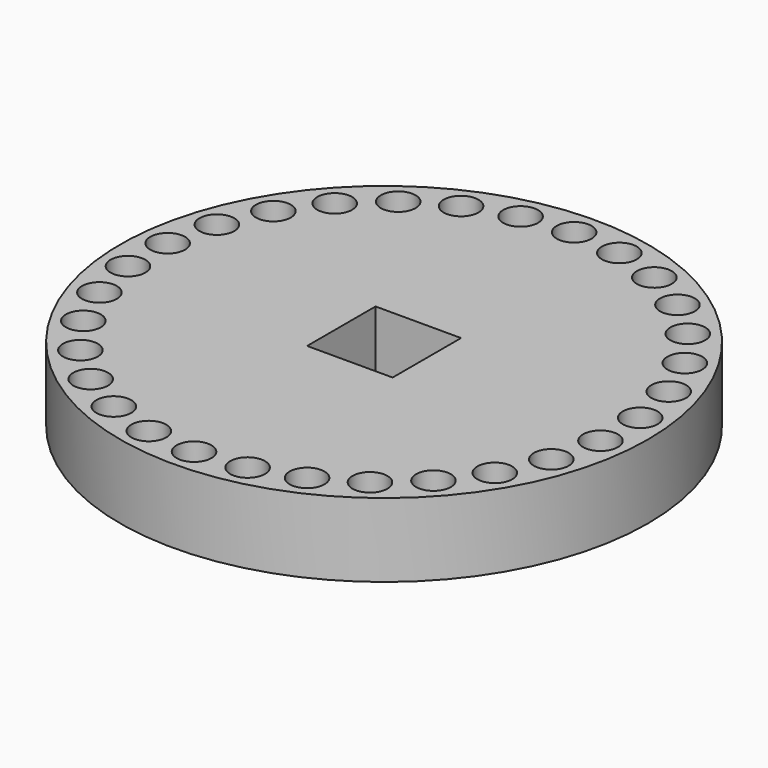
from build123d import *

# Parameters (mm, degrees)
F0_R          = 25
F0_W          = 8.1
F0_H          = 8.1
F1_DEPTH      = 8
F2_R          = 1.65
F3_DEPTH      = 10
F3_DEPTH_BACK = 7
F4_SIZE2      = 7
F4_SIZE       = 1
F5_ANGLE      = 90


with BuildPart() as f1:
    # F0 (on Front) → F1 (new body)
    with BuildSketch(Plane.XZ):
        Circle(F0_R)
        Rectangle(F0_W, F0_H, mode=Mode.SUBTRACT)
    extrude(amount=F1_DEPTH)

    # F2 (on face) → F3 (cut, two sides)
    with BuildSketch(Plane.XZ.offset(8)) as f3_sk:
        with Locations((0, 22.5)):
            Circle(F2_R)
        with Locations((-4.678013, 22.008321)):
            Circle(F2_R)
        with Locations((-9.151574, 20.554773)):
            Circle(F2_R)
        with Locations((-13.225168, 18.202882)):
            Circle(F2_R)
        with Locations((-16.720759, 15.055439)):
            Circle(F2_R)
        with Locations((-19.485572, 11.25)):
            Circle(F2_R)
        with Locations((-21.398772, 6.952882)):
            Circle(F2_R)
        with Locations((-22.376743, 2.35189)):
            Circle(F2_R)
        with Locations((-22.376743, -2.35189)):
            Circle(F2_R)
        with Locations((-21.398772, -6.952882)):
            Circle(F2_R)
        with Locations((-19.485572, -11.25)):
            Circle(F2_R)
        with Locations((-16.720759, -15.055439)):
            Circle(F2_R)
        with Locations((-13.225168, -18.202882)):
            Circle(F2_R)
        with Locations((-9.151574, -20.554773)):
            Circle(F2_R)
        with Locations((-4.678013, -22.008321)):
            Circle(F2_R)
        with Locations((0, -22.5)):
            Circle(F2_R)
        with Locations((4.678013, -22.008321)):
            Circle(F2_R)
        with Locations((9.151574, -20.554773)):
            Circle(F2_R)
        with Locations((13.225168, -18.202882)):
            Circle(F2_R)
        with Locations((16.720759, -15.055439)):
            Circle(F2_R)
        with Locations((19.485572, -11.25)):
            Circle(F2_R)
        with Locations((21.398772, -6.952882)):
            Circle(F2_R)
        with Locations((22.376743, -2.35189)):
            Circle(F2_R)
        with Locations((22.376743, 2.35189)):
            Circle(F2_R)
        with Locations((21.398772, 6.952882)):
            Circle(F2_R)
        with Locations((19.485572, 11.25)):
            Circle(F2_R)
        with Locations((16.720759, 15.055439)):
            Circle(F2_R)
        with Locations((13.225168, 18.202882)):
            Circle(F2_R)
        with Locations((9.151574, 20.554773)):
            Circle(F2_R)
        with Locations((4.678013, 22.008321)):
            Circle(F2_R)
    extrude(amount=F3_DEPTH, mode=Mode.SUBTRACT)
    extrude(f3_sk.sketch, amount=-F3_DEPTH_BACK, mode=Mode.SUBTRACT)

    # F4
    f4_edges = [f1.edges().sort_by_distance(p)[0] for p in [
        (-25, 0, 0),
    ]]
    chamfer(f4_edges, length=F4_SIZE, length2=F4_SIZE2)


with BuildPart() as f1_1:
    # F5: moved
    add(f1.part.rotate(Axis((0, -8, 4.05), (-1, 0, 0)), F5_ANGLE))


solid = f1_1.part
